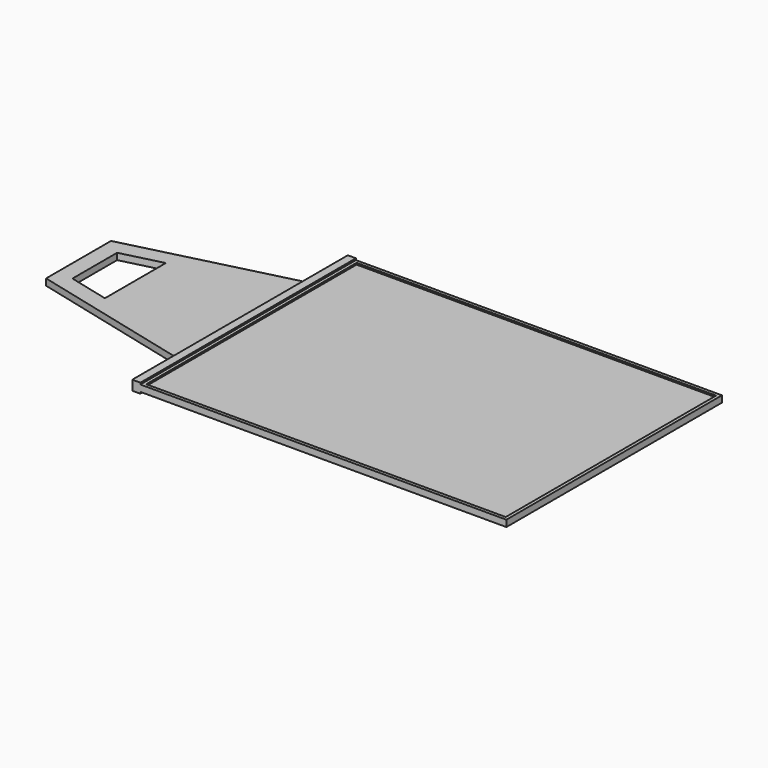
from build123d import *

# Parameters (mm, degrees)
F0_W     = 221.5
F0_H     = 162
F1_DEPTH = 1
F0_W_2   = 225.5
F0_H_2   = 166
F2_DEPTH = 2
F3_DEPTH = 3
F4_DEPTH = 2


with BuildPart() as f1:
    # F0 (on Top) → F1 (new body, symmetric)
    with BuildSketch(Plane.XY):
        Rectangle(F0_W, F0_H)
    extrude(amount=F1_DEPTH, both=True)

    # F0 (on Top) → F2 (join, symmetric)
    with BuildSketch(Plane.XY):
        Rectangle(F0_W_2, F0_H_2)
        Rectangle(F0_W, F0_H, mode=Mode.SUBTRACT)
    extrude(amount=F2_DEPTH, both=True)

    # F0 (on Top) → F3 (join, symmetric)
    with BuildSketch(Plane.XY):
        Polygon((-112.75, -83), (-112.75, 83), (-117.75, 83), (-117.75, 50), (-117.75, -50), (-117.75, -83), align=None)
    extrude(amount=F3_DEPTH, both=True)

    # F0 (on Top) → F4 (join, symmetric)
    with BuildSketch(Plane.XY):
        Polygon((-117.75, -50), (-117.75, 50), (-217.25, 25), (-217.25, -25), align=None)
        Polygon((-182.25, -23.483152), (-207.25, -17.201745), (-207.25, 17.201745), (-182.25, 23.483152), align=None, mode=Mode.SUBTRACT)
    extrude(amount=F4_DEPTH, both=True)


solid = f1.part
